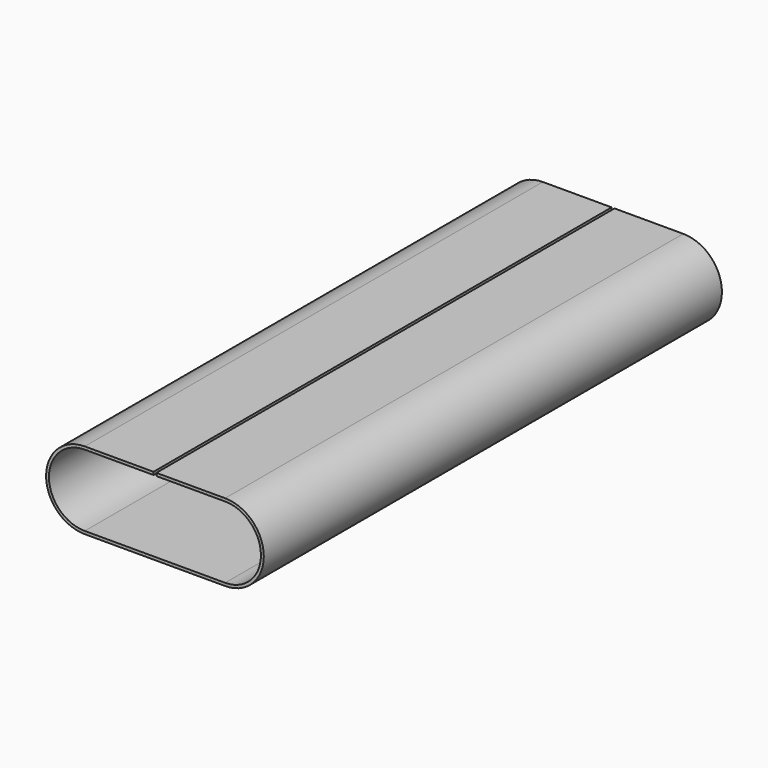
from build123d import *

# Parameters (mm, degrees)
F1_DEPTH = 200


with BuildPart() as f1:
    # F0 (on Front) → F1 (new body)
    with BuildSketch(Plane.XZ):
        with BuildLine():
            ThreePointArc((-28.39284, 70.23295), (-41.89284, 56.73295), (-28.39284, 43.23295))
            Line((-28.39284, 43.23295), (20.645059, 43.23295))
            ThreePointArc((20.645059, 43.23295), (34.145059, 56.73295), (20.645059, 70.23295))
            Line((20.645059, 70.23295), (-3.373891, 70.23295))
            Line((-3.373891, 70.23295), (-3.373891, 69.23295))
            Line((-3.373891, 69.23295), (20.645059, 69.23295))
            ThreePointArc((20.645059, 69.23295), (33.145059, 56.73295), (20.645059, 44.23295))
            Line((20.645059, 44.23295), (-28.39284, 44.23295))
            ThreePointArc((-28.39284, 44.23295), (-40.89284, 56.73295), (-28.39284, 69.23295))
            Line((-28.39284, 69.23295), (-4.373891, 69.23295))
            Line((-4.373891, 69.23295), (-4.373891, 70.23295))
            Line((-4.373891, 70.23295), (-28.39284, 70.23295))
        make_face()
    extrude(amount=F1_DEPTH)


solid = f1.part
